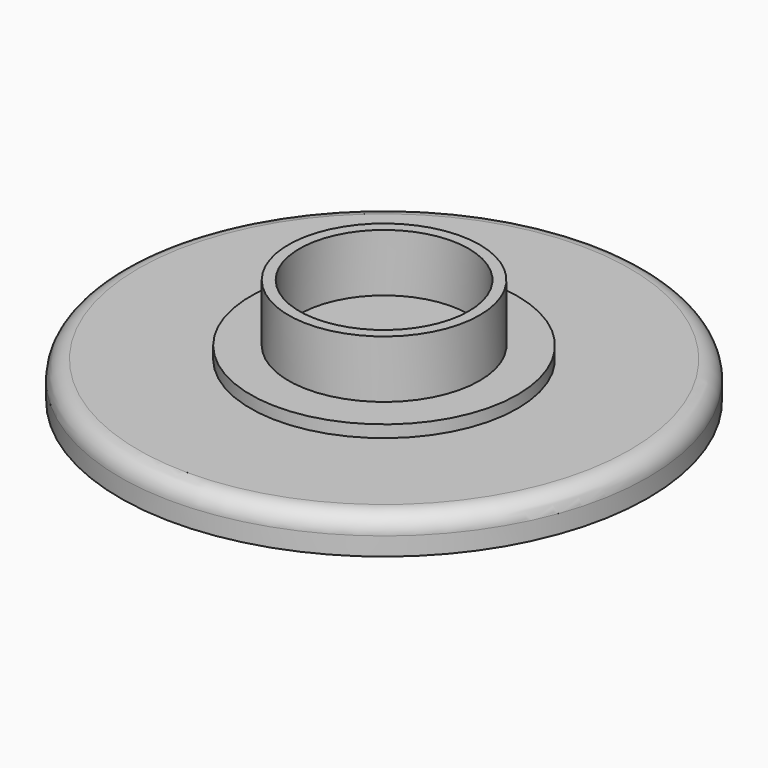
from build123d import *

# Parameters (mm, degrees)
F0_R     = 4.35
F1_DEPTH = 0.6
F2_R     = 2.2
F3_DEPTH = 0.2
F4_R     = 1.575
F4_R_2   = 1.395
F5_DEPTH = 0.95
F6_R     = 0.3


with BuildPart() as f1:
    # F0 (on Top) → F1 (new body)
    with BuildSketch(Plane.XY):
        Circle(F0_R)
    extrude(amount=F1_DEPTH)

    # F2 (on face) → F3 (join)
    with BuildSketch(Plane.XY.offset(0.6)):
        Circle(F2_R)
    extrude(amount=F3_DEPTH)

    # F4 (on face) → F5 (join)
    with BuildSketch(Plane.XY.offset(0.8)):
        Circle(F4_R)
        Circle(F4_R_2, mode=Mode.SUBTRACT)
    extrude(amount=F5_DEPTH)

    # F6
    f6_edges = [f1.edges().sort_by_distance(p)[0] for p in [
        (-4.35, 0, 0.6),
    ]]
    fillet(f6_edges, radius=F6_R)


solid = f1.part
